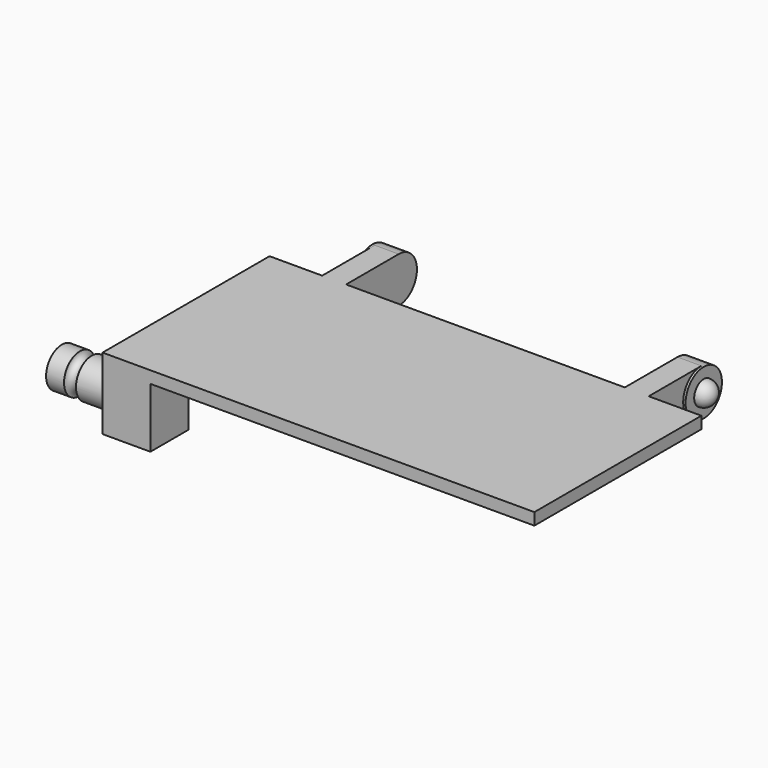
from build123d import *

# Parameters (mm, degrees)
PAD038_DEPTH             = 1
PAD039_DEPTH             = 2.2
POCKET022_DEPTH          = 0.2
PAD040_DEPTH             = 2.2
POCKET023_DEPTH          = 0.2
SKETCH063_W              = 4
SKETCH063_H              = 4
PAD041_DEPTH             = 5
SKETCH064_R              = 1.65
PAD042_DEPTH             = 5
SKETCH065_R              = 0.5
PAD084_DEPTH             = 2
PAD085_DEPTH             = 2
CLONE003_PLACEMENT_ANGLE = 180


with BuildPart() as part:
    # Sketch058 (on DatumPlane) → Pad038 (new body)
    with BuildSketch(Plane(origin=(0, 0, -0.6), x_dir=(1, 0, 0), z_dir=(0, 0, -1))):
        Polygon((45.85, -61.65), (45.85, -79.1), (81.95, -79.1), (81.95, -61.65), (77.55, -61.65), (77.55, -58.65), (77.75, -58.65), (77.75, -56.15), (75.55, -56.15), (75.55, -61.65), (52.25, -61.65), (52.25, -56.15), (50.05, -56.15), (50.05, -58.65), (50.25, -58.65), (50.25, -61.65), align=None)
    extrude(amount=PAD038_DEPTH)

    # Sketch059 (on Face13 of Pad038) → Pad039 (join)
    with BuildSketch(Plane(origin=(50.05, 0, -0.6), x_dir=(0, 1, 0), z_dir=(-1, 0, 0))):
        with BuildLine():
            ThreePointArc((57.82332, 1), (55.175321, 3.530951), (56.15, 0))
            Line((56.15, 1), (56.15, 0))
            Line((57.82332, 1), (56.15, 1))
        make_face()
    extrude(amount=-PAD039_DEPTH)

    # Sketch060 (on Face18 of Pad039) → Pocket022 (cut)
    with BuildSketch(Plane(origin=(50.05, 0, -0.6), x_dir=(0, 1, 0), z_dir=(-1, 0, 0))):
        with BuildLine():
            ThreePointArc((56.15, 0), (57.124679, 0.269049), (57.82332, 1))
            Line((57.82332, 1), (58.65, 1))
            Line((58.65, 1), (58.65, 0))
            Line((58.65, 0), (56.15, 0))
        make_face()
    extrude(amount=-POCKET022_DEPTH, mode=Mode.SUBTRACT)

    # Sketch061 (on Face10 of Pocket022) → Pad040 (join)
    with BuildSketch(Plane(origin=(77.75, 0, -0.6), x_dir=(0, -1, 0), z_dir=(1, 0, 0))):
        with BuildLine():
            ThreePointArc((-56.15, 0), (-55.175321, 3.530951), (-57.82332, 1))
            Line((-57.82332, 1), (-56.15, 1))
            Line((-56.15, 1), (-56.15, 0))
        make_face()
    extrude(amount=-PAD040_DEPTH)

    # Sketch062 (on Face16 of Pad040) → Pocket023 (cut)
    with BuildSketch(Plane(origin=(77.75, 0, -0.6), x_dir=(0, -1, 0), z_dir=(1, 0, 0))):
        with BuildLine():
            ThreePointArc((-57.82332, 1), (-57.124679, 0.269049), (-56.15, 0))
            Line((-58.65, 0), (-56.15, 0))
            Line((-58.65, 1), (-58.65, 0))
            Line((-57.82332, 1), (-58.65, 1))
        make_face()
    extrude(amount=-POCKET023_DEPTH, mode=Mode.SUBTRACT)

    # Sphere004 → Sphere004 (revolve)
    with BuildSketch(Plane(origin=(50.05, 56.15, -2.5), x_dir=(0, 1, 0), z_dir=(0, 0, -1))):
        with BuildLine():
            ThreePointArc((0, -1), (1, 0), (0, 1))
            Line((0, 1), (0, -1))
        make_face()
    revolve(axis=Axis((50.05, 56.15, -2.5), (1, 0, 0)))

    # Sphere005 → Sphere005 (revolve)
    with BuildSketch(Plane(origin=(77.75, 56.15, -2.5), x_dir=(0, 1, 0), z_dir=(0, 0, -1))):
        with BuildLine():
            ThreePointArc((0, -1), (1, 0), (0, 1))
            Line((0, 1), (0, -1))
        make_face()
    revolve(axis=Axis((77.75, 56.15, -2.5), (1, 0, 0)))

    # Sketch063 (on Face5 of Sphere005) → Pad041 (join)
    with BuildSketch(Plane(origin=(77.75, 56.15, -1.6), x_dir=(0, 1, 0), z_dir=(0, 0, -1))):
        with Locations((20.95, 2.2)):
            Rectangle(SKETCH063_W, SKETCH063_H)
    extrude(amount=PAD041_DEPTH)

    # Sketch064 (on Face21 of Pad041) → Pad042 (join)
    with BuildSketch(Plane(origin=(81.95, 56.15, -2.5), x_dir=(0, 1, 0), z_dir=(1, 0, 0))):
        with Locations((20.95, -1.599996)):
            Circle(SKETCH064_R)
    extrude(amount=PAD042_DEPTH)

    # Sketch065 (on DatumPlane) → Groove002 (revolve, cut)
    with BuildSketch(Plane(origin=(84.45, 77.1, -4.1), x_dir=(0, 1, 0), z_dir=(0, 0, -1))):
        with Locations((1.680544, 0.5)):
            Circle(SKETCH065_R)
    revolve(axis=Axis((84.45, 77.1, -4.1), (1, 0, 0)), mode=Mode.SUBTRACT)

    # Sketch107 (on Face15 of Groove002) → Pad084 (join)
    with BuildSketch(Plane(origin=(52.25, 56.15, -2.5), x_dir=(0, 1, 0), z_dir=(1, 0, 0))):
        Polygon((22.95, 0.900005), (0.231255, -1.885874), (1.67332, 0.9), align=None)
    extrude(amount=-PAD084_DEPTH)

    # Sketch108 (on Face14 of Pad084) → Pad085 (join)
    with BuildSketch(Plane(origin=(75.55, 56.15, -2.5), x_dir=(0, 1, 0), z_dir=(-1, 0, 0))):
        Polygon((1.67332, -0.9), (22.95, -0.900005), (0.231255, 1.885874), align=None)
    extrude(amount=-PAD085_DEPTH)


with BuildPart() as part_1:
    # Clone003 placement: moved
    add(part.part.moved(Location((91.8, 159.4, 0))).rotate(Axis((91.8, 159.4, 0), (0, 0, -1)), CLONE003_PLACEMENT_ANGLE))


with BuildPart() as part_2:
    # Body021 placement: moved
    add(part_1.part.moved(Location((36, 0, 0))))


solid = part_2.part
